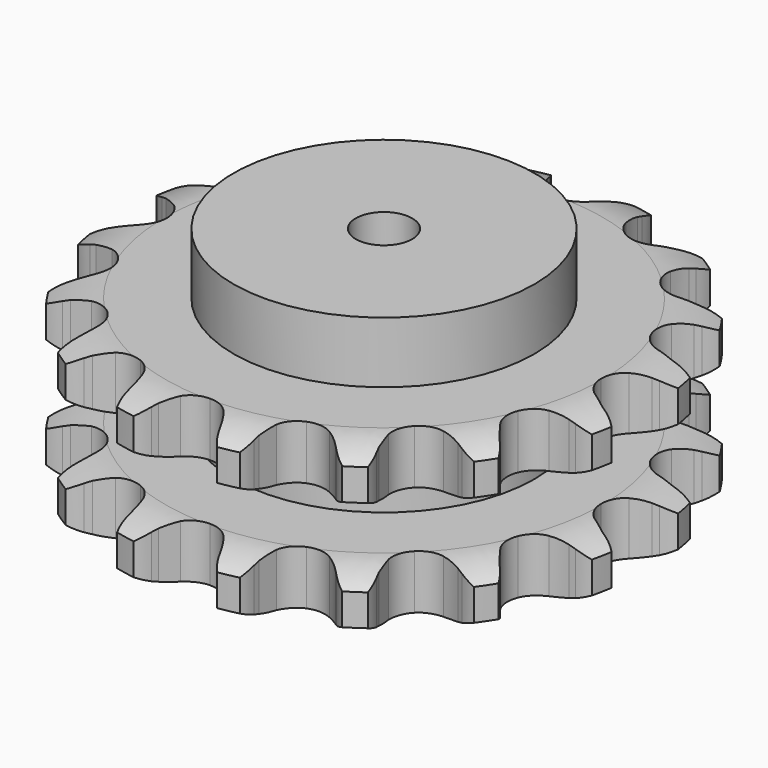
from build123d import *

# Parameters (mm, degrees)
PAD_DEPTH         = 87.4
SKETCH001_R       = 80
PAD001_DEPTH      = 120
SKETCH002_R       = 15
POCKET_DEPTH      = 0.001
POCKET_DEPTH_BACK = 120.001


with BuildPart() as part:
    # Sprocket → Pad (new body)
    with BuildSketch(Plane.XY):
        with BuildLine():
            ThreePointArc((-28.585583, 143.709432), (-22.281385, 138.856984), (-17.874516, 132.23364))
            Line((-17.874516, 132.23364), (-16.499319, 129.180816))
            ThreePointArc((-16.499319, 129.180816), (-14.247714, 124.923784), (-11.476878, 120.984937))
            ThreePointArc((-11.476878, 120.984937), (-6.364418, 116.9274), (0, 115.47998))
            ThreePointArc((0, 115.47998), (6.364418, 116.9274), (11.476878, 120.984937))
            ThreePointArc((11.476878, 120.984937), (14.247714, 124.923784), (16.499319, 129.180816))
            Line((16.499319, 129.180816), (17.874516, 132.23364))
            ThreePointArc((17.874516, 132.23364), (22.281385, 138.856984), (28.585583, 143.709432))
            ThreePointArc((28.585583, 143.709432), (32.552952, 136.813842), (34.089724, 129.008235))
            Line((34.089724, 129.008235), (34.191975, 125.661528))
            ThreePointArc((34.191975, 125.661528), (34.643091, 120.866891), (35.695679, 116.167518))
            ThreePointArc((35.695679, 116.167518), (38.866223, 110.462389), (44.192275, 106.68959))
            ThreePointArc((44.192275, 106.68959), (50.626134, 105.591275), (56.902183, 107.383496))
            Line((56.902183, 107.383496), (64.678741, 113.033496))
            ThreePointArc((64.678741, 113.033496), (65.872908, 114.207399), (67.117523, 115.327673))
            ThreePointArc((67.117523, 115.327673), (73.723582, 119.760408), (81.404854, 121.830973))
            ThreePointArc((81.404854, 121.830973), (82.431397, 113.942033), (80.864112, 106.142495))
            Line((80.864112, 106.142495), (79.677851, 103.011412))
            ThreePointArc((79.677851, 103.011412), (78.259799, 98.40911), (77.433891, 93.664647))
            ThreePointArc((77.433891, 93.664647), (78.179834, 87.180481), (81.656677, 81.656677))
            ThreePointArc((81.656677, 81.656677), (87.180481, 78.179834), (93.664647, 77.433891))
            Line((93.664647, 77.433891), (103.011412, 79.677851))
            ThreePointArc((103.011412, 79.677851), (104.56391, 80.305408), (106.142495, 80.864112))
            ThreePointArc((106.142495, 80.864112), (113.942033, 82.431397), (121.830973, 81.404854))
            ThreePointArc((121.830973, 81.404854), (119.760408, 73.723582), (115.327673, 67.117523))
            Line((115.327673, 67.117523), (113.033496, 64.678741))
            ThreePointArc((113.033496, 64.678741), (109.962163, 60.969434), (107.383496, 56.902183))
            ThreePointArc((107.383496, 56.902183), (105.591275, 50.626134), (106.68959, 44.192275))
            ThreePointArc((106.68959, 44.192275), (110.462389, 38.866223), (116.167518, 35.695679))
            Line((116.167518, 35.695679), (125.661528, 34.191975))
            ThreePointArc((125.661528, 34.191975), (127.336006, 34.177647), (129.008235, 34.089724))
            ThreePointArc((129.008235, 34.089724), (136.813842, 32.552952), (143.709432, 28.585583))
            ThreePointArc((143.709432, 28.585583), (138.856984, 22.281385), (132.23364, 17.874516))
            Line((132.23364, 17.874516), (129.180816, 16.499319))
            ThreePointArc((129.180816, 16.499319), (124.923784, 14.247714), (120.984937, 11.476878))
            ThreePointArc((120.984937, 11.476878), (116.9274, 6.364418), (115.47998, 0))
            ThreePointArc((115.47998, 0), (116.9274, -6.364418), (120.984937, -11.476878))
            Line((120.984937, -11.476878), (129.180816, -16.499319))
            ThreePointArc((129.180816, -16.499319), (130.722349, -17.153352), (132.23364, -17.874516))
            ThreePointArc((132.23364, -17.874516), (138.856984, -22.281385), (143.709432, -28.585583))
            ThreePointArc((143.709432, -28.585583), (136.813842, -32.552952), (129.008235, -34.089724))
            Line((129.008235, -34.089724), (125.661528, -34.191975))
            ThreePointArc((125.661528, -34.191975), (120.866891, -34.643091), (116.167518, -35.695679))
            ThreePointArc((116.167518, -35.695679), (110.462389, -38.866223), (106.68959, -44.192275))
            ThreePointArc((106.68959, -44.192275), (105.591275, -50.626134), (107.383496, -56.902183))
            Line((107.383496, -56.902183), (113.033496, -64.678741))
            ThreePointArc((113.033496, -64.678741), (114.207399, -65.872908), (115.327673, -67.117523))
            ThreePointArc((115.327673, -67.117523), (119.760408, -73.723582), (121.830973, -81.404854))
            ThreePointArc((121.830973, -81.404854), (113.942033, -82.431397), (106.142495, -80.864112))
            Line((106.142495, -80.864112), (103.011412, -79.677851))
            ThreePointArc((103.011412, -79.677851), (98.40911, -78.259799), (93.664647, -77.433891))
            ThreePointArc((93.664647, -77.433891), (87.180481, -78.179834), (81.656677, -81.656677))
            ThreePointArc((81.656677, -81.656677), (78.179834, -87.180481), (77.433891, -93.664647))
            Line((77.433891, -93.664647), (79.677851, -103.011412))
            ThreePointArc((79.677851, -103.011412), (80.305408, -104.56391), (80.864112, -106.142495))
            ThreePointArc((80.864112, -106.142495), (82.431397, -113.942033), (81.404854, -121.830973))
            ThreePointArc((81.404854, -121.830973), (73.723582, -119.760408), (67.117523, -115.327673))
            Line((67.117523, -115.327673), (64.678741, -113.033496))
            ThreePointArc((64.678741, -113.033496), (60.969434, -109.962163), (56.902183, -107.383496))
            ThreePointArc((56.902183, -107.383496), (50.626134, -105.591275), (44.192275, -106.68959))
            ThreePointArc((44.192275, -106.68959), (38.866223, -110.462389), (35.695679, -116.167518))
            Line((35.695679, -116.167518), (34.191975, -125.661528))
            ThreePointArc((34.191975, -125.661528), (34.177647, -127.336006), (34.089724, -129.008235))
            ThreePointArc((34.089724, -129.008235), (32.552952, -136.813842), (28.585583, -143.709432))
            ThreePointArc((28.585583, -143.709432), (22.281385, -138.856984), (17.874516, -132.23364))
            Line((17.874516, -132.23364), (16.499319, -129.180816))
            ThreePointArc((16.499319, -129.180816), (14.247714, -124.923784), (11.476878, -120.984937))
            ThreePointArc((11.476878, -120.984937), (6.364418, -116.9274), (0, -115.47998))
            ThreePointArc((0, -115.47998), (-6.364418, -116.9274), (-11.476878, -120.984937))
            Line((-11.476878, -120.984937), (-16.499319, -129.180816))
            ThreePointArc((-16.499319, -129.180816), (-17.153352, -130.722349), (-17.874516, -132.23364))
            ThreePointArc((-17.874516, -132.23364), (-22.281385, -138.856984), (-28.585583, -143.709432))
            ThreePointArc((-28.585583, -143.709432), (-32.552952, -136.813842), (-34.089724, -129.008235))
            Line((-34.089724, -129.008235), (-34.191975, -125.661528))
            ThreePointArc((-34.191975, -125.661528), (-34.643091, -120.866891), (-35.695679, -116.167518))
            ThreePointArc((-35.695679, -116.167518), (-38.866223, -110.462389), (-44.192275, -106.68959))
            ThreePointArc((-44.192275, -106.68959), (-50.626134, -105.591275), (-56.902183, -107.383496))
            Line((-56.902183, -107.383496), (-64.678741, -113.033496))
            ThreePointArc((-64.678741, -113.033496), (-65.872908, -114.207399), (-67.117523, -115.327673))
            ThreePointArc((-67.117523, -115.327673), (-73.723582, -119.760408), (-81.404854, -121.830973))
            ThreePointArc((-81.404854, -121.830973), (-82.431397, -113.942033), (-80.864112, -106.142495))
            Line((-80.864112, -106.142495), (-79.677851, -103.011412))
            ThreePointArc((-79.677851, -103.011412), (-78.259799, -98.40911), (-77.433891, -93.664647))
            ThreePointArc((-77.433891, -93.664647), (-78.179834, -87.180481), (-81.656677, -81.656677))
            ThreePointArc((-81.656677, -81.656677), (-87.180481, -78.179834), (-93.664647, -77.433891))
            Line((-93.664647, -77.433891), (-103.011412, -79.677851))
            ThreePointArc((-103.011412, -79.677851), (-104.56391, -80.305408), (-106.142495, -80.864112))
            ThreePointArc((-106.142495, -80.864112), (-113.942033, -82.431397), (-121.830973, -81.404854))
            ThreePointArc((-121.830973, -81.404854), (-119.760408, -73.723582), (-115.327673, -67.117523))
            Line((-115.327673, -67.117523), (-113.033496, -64.678741))
            ThreePointArc((-113.033496, -64.678741), (-109.962163, -60.969434), (-107.383496, -56.902183))
            ThreePointArc((-107.383496, -56.902183), (-105.591275, -50.626134), (-106.68959, -44.192275))
            ThreePointArc((-106.68959, -44.192275), (-110.462389, -38.866223), (-116.167518, -35.695679))
            Line((-116.167518, -35.695679), (-125.661528, -34.191975))
            ThreePointArc((-125.661528, -34.191975), (-127.336006, -34.177647), (-129.008235, -34.089724))
            ThreePointArc((-129.008235, -34.089724), (-136.813842, -32.552952), (-143.709432, -28.585583))
            ThreePointArc((-143.709432, -28.585583), (-138.856984, -22.281385), (-132.23364, -17.874516))
            Line((-132.23364, -17.874516), (-129.180816, -16.499319))
            ThreePointArc((-129.180816, -16.499319), (-124.923784, -14.247714), (-120.984937, -11.476878))
            ThreePointArc((-120.984937, -11.476878), (-116.9274, -6.364418), (-115.47998, 0))
            ThreePointArc((-115.47998, 0), (-116.9274, 6.364418), (-120.984937, 11.476878))
            Line((-120.984937, 11.476878), (-129.180816, 16.499319))
            ThreePointArc((-129.180816, 16.499319), (-130.722349, 17.153352), (-132.23364, 17.874516))
            ThreePointArc((-132.23364, 17.874516), (-138.856984, 22.281385), (-143.709432, 28.585583))
            ThreePointArc((-143.709432, 28.585583), (-136.813842, 32.552952), (-129.008235, 34.089724))
            Line((-129.008235, 34.089724), (-125.661528, 34.191975))
            ThreePointArc((-125.661528, 34.191975), (-120.866891, 34.643091), (-116.167518, 35.695679))
            ThreePointArc((-116.167518, 35.695679), (-110.462389, 38.866223), (-106.68959, 44.192275))
            ThreePointArc((-106.68959, 44.192275), (-105.591275, 50.626134), (-107.383496, 56.902183))
            Line((-107.383496, 56.902183), (-113.033496, 64.678741))
            ThreePointArc((-113.033496, 64.678741), (-114.207399, 65.872908), (-115.327673, 67.117523))
            ThreePointArc((-115.327673, 67.117523), (-119.760408, 73.723582), (-121.830973, 81.404854))
            ThreePointArc((-121.830973, 81.404854), (-113.942033, 82.431397), (-106.142495, 80.864112))
            Line((-106.142495, 80.864112), (-103.011412, 79.677851))
            ThreePointArc((-103.011412, 79.677851), (-98.40911, 78.259799), (-93.664647, 77.433891))
            ThreePointArc((-93.664647, 77.433891), (-87.180481, 78.179834), (-81.656677, 81.656677))
            ThreePointArc((-81.656677, 81.656677), (-78.179834, 87.180481), (-77.433891, 93.664647))
            Line((-77.433891, 93.664647), (-79.677851, 103.011412))
            ThreePointArc((-79.677851, 103.011412), (-80.305408, 104.56391), (-80.864112, 106.142495))
            ThreePointArc((-80.864112, 106.142495), (-82.431397, 113.942033), (-81.404854, 121.830973))
            ThreePointArc((-81.404854, 121.830973), (-73.723582, 119.760408), (-67.117523, 115.327673))
            Line((-67.117523, 115.327673), (-64.678741, 113.033496))
            ThreePointArc((-64.678741, 113.033496), (-60.969434, 109.962163), (-56.902183, 107.383496))
            ThreePointArc((-56.902183, 107.383496), (-50.626134, 105.591275), (-44.192275, 106.68959))
            ThreePointArc((-44.192275, 106.68959), (-38.866223, 110.462389), (-35.695679, 116.167518))
            Line((-35.695679, 116.167518), (-34.191975, 125.661528))
            ThreePointArc((-34.191975, 125.661528), (-34.177647, 127.336006), (-34.089724, 129.008235))
            ThreePointArc((-34.089724, 129.008235), (-32.552952, 136.813842), (-28.585583, 143.709432))
        make_face()
    extrude(amount=PAD_DEPTH)

    # Sketch → Groove (revolve, cut)
    with BuildSketch(Plane.XZ):
        with BuildLine():
            ThreePointArc((116.45, 0), (128.819317, 1.522732), (140.45, 6))
            Line((140.45, 6), (140.45, 22.8))
            ThreePointArc((140.45, 22.8), (128.819317, 27.277268), (116.45, 28.8))
            Line((80, 28.8), (116.45, 28.8))
            Line((80, 58.6), (80, 28.8))
            Line((116.45, 58.6), (80, 58.6))
            ThreePointArc((116.45, 58.6), (128.819317, 60.122732), (140.45, 64.6))
            Line((140.45, 64.6), (140.45, 81.4))
            ThreePointArc((140.45, 81.4), (128.819317, 85.877268), (116.45, 87.4))
            Line((116.45, 87.4), (150.45, 87.4))
            Line((150.45, 87.4), (150.45, 0))
            Line((116.45, 0), (150.45, 0))
        make_face()
    revolve(axis=Axis((0, 0, 0), (0, 0, 1)), mode=Mode.SUBTRACT)

    # Sketch001 → Pad001 (join)
    with BuildSketch(Plane.XY):
        Circle(SKETCH001_R)
    extrude(amount=PAD001_DEPTH)

    # Sketch002 → Pocket (cut, two sides)
    with BuildSketch(Plane.XY) as pocket_sk:
        Circle(SKETCH002_R)
    extrude(amount=-POCKET_DEPTH, mode=Mode.SUBTRACT)
    extrude(pocket_sk.sketch, amount=POCKET_DEPTH_BACK, mode=Mode.SUBTRACT)


solid = part.part
